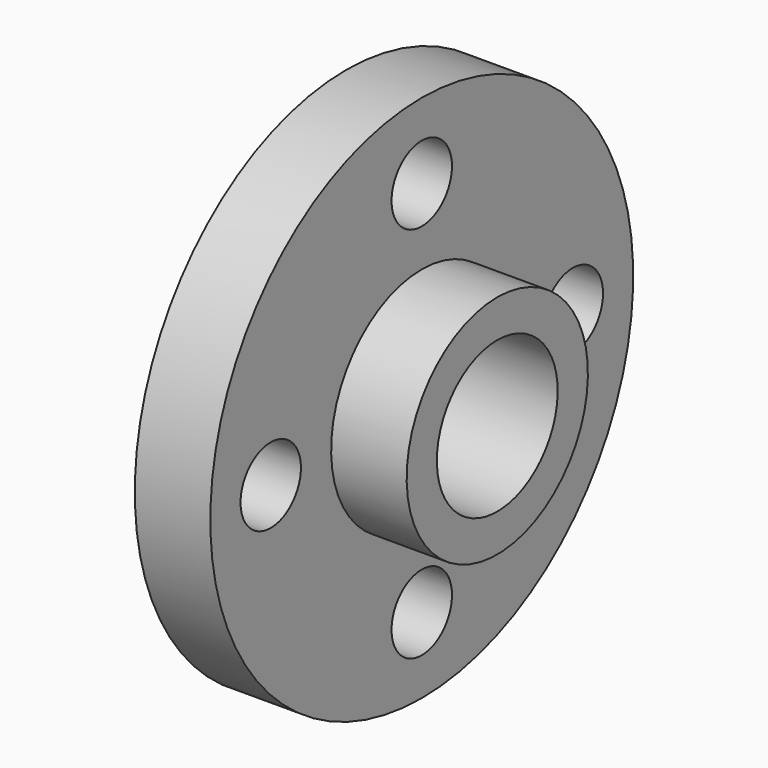
from build123d import *

# Parameters (mm, degrees)
F2_R     = 6.35
F3_DEPTH = 25.401


with BuildPart() as f1:
    # F0 (on Front) → F1 (revolve)
    with BuildSketch(Plane.XZ):
        Polygon((-6.35, 19.05), (-19.05, 19.05), (-19.05, 12.7), (19.05, 12.7), (19.05, 19.05), (6.35, 19.05), (6.35, 44.45), (-6.35, 44.45), align=None)
    revolve(axis=Axis((-0.036185, 0, 0), (1, 0, 0)))

    # F2 (on face) → F3 (cut, through all)
    with BuildSketch(Plane.YZ.offset(6.35)):
        with Locations((0, -31.75)):
            Circle(F2_R)
        with Locations((31.75, 0)):
            Circle(F2_R)
        with Locations((0, 31.75)):
            Circle(F2_R)
        with Locations((-31.75, 0)):
            Circle(F2_R)
    extrude(amount=-F3_DEPTH, mode=Mode.SUBTRACT)


solid = f1.part
